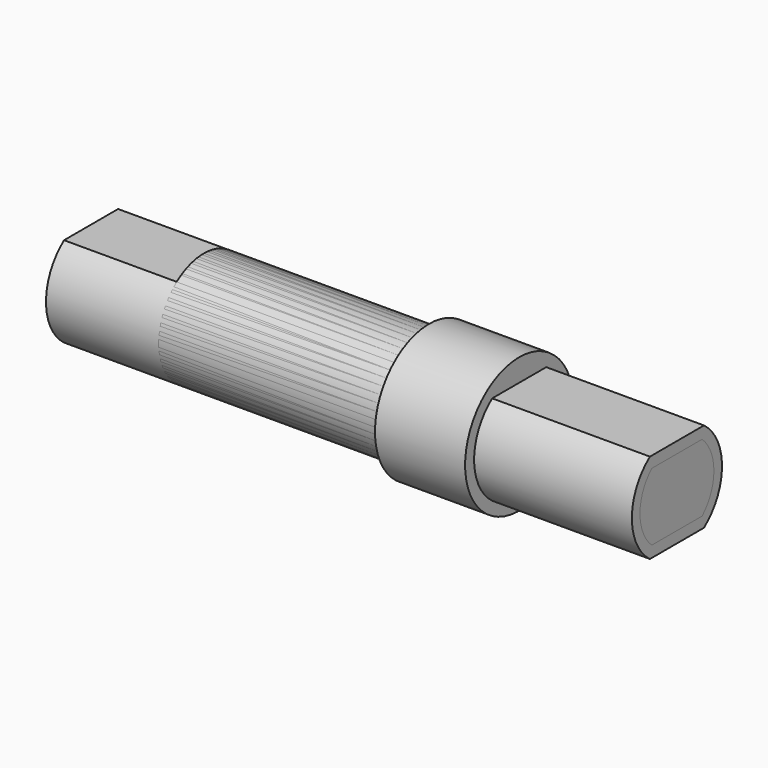
from build123d import *

# Parameters (mm, degrees)
SKETCH001_W     = 10
SKETCH001_H     = 5
POCKET_DEPTH    = 5
SKETCH002_W     = 10
SKETCH002_H     = 5
POCKET001_DEPTH = 7
SKETCH004_W     = 10
SKETCH004_H     = 5
POCKET002_DEPTH = 5
SKETCH005_W     = 10
SKETCH005_H     = 5
POCKET003_DEPTH = 7
CHAMFER_SIZE    = 0.4
SKETCH006_R     = 3
SKETCH006_R_2   = 2.45
POCKET004_DEPTH = 5.001


with BuildPart() as shaft1_skel:
    # Sketch → Revolution (revolve)
    with BuildSketch(Plane.XY):
        Polygon((7, 0), (7, 2.5), (0, 2.5), (0, 3), (-4, 3), (-4, 2.5), (-19, 2.5), (-19, 0), align=None)
    revolve(axis=Axis((0, 0, 0), (1, 0, 0)))

    # Sketch001 (on Face7 of Revolution) → Pocket (cut)
    with BuildSketch(Plane(origin=(-19, 0, 0), x_dir=(0, -1, 0), z_dir=(-1, 0, 0))):
        with Locations((0, 4.5)):
            Rectangle(SKETCH001_W, SKETCH001_H)
        with Locations((0, -4.5)):
            Rectangle(SKETCH001_W, SKETCH001_H)
    extrude(amount=-POCKET_DEPTH, mode=Mode.SUBTRACT)

    # Sketch002 (on Face1 of Pocket) → Pocket001 (cut)
    with BuildSketch(Plane.YZ.offset(7)):
        with Locations((0, 4.5)):
            Rectangle(SKETCH002_W, SKETCH002_H)
        with Locations((0, -4.5)):
            Rectangle(SKETCH002_W, SKETCH002_H)
    extrude(amount=-POCKET001_DEPTH, mode=Mode.SUBTRACT)


with BuildPart() as shaft1s:
    # Sketch003 → Revolution001 (revolve)
    with BuildSketch(Plane.XY):
        Polygon((7, 0), (7, 2.45), (0, 2.45), (0, 3), (-4, 3), (-4, 2.5), (-19, 2.5), (-19, 0), align=None)
    revolve(axis=Axis((0, 0, 0), (1, 0, 0)))

    # Sketch004 (on Face7 of Revolution001) → Pocket002 (cut)
    with BuildSketch(Plane(origin=(-19, 0, 0), x_dir=(0, -1, 0), z_dir=(-1, 0, 0))):
        with Locations((0, 4.4)):
            Rectangle(SKETCH004_W, SKETCH004_H)
        with Locations((0, -4.4)):
            Rectangle(SKETCH004_W, SKETCH004_H)
    extrude(amount=-POCKET002_DEPTH, mode=Mode.SUBTRACT)

    # Sketch005 (on Face1 of Pocket002) → Pocket003 (cut)
    with BuildSketch(Plane.YZ.offset(7)):
        with Locations((0, 4.4)):
            Rectangle(SKETCH005_W, SKETCH005_H)
        with Locations((0, -4.4)):
            Rectangle(SKETCH005_W, SKETCH005_H)
    extrude(amount=-POCKET003_DEPTH, mode=Mode.SUBTRACT)

    # Chamfer
    chamfer_edges = [shaft1s.edges().sort_by_distance(p)[0] for p in [
        (7, -2.45, 0),
        (7, 2.212701, 1.051882),
        (7, 2.212701, -1.051882),
        (7, 0, 1.9),
        (7, 0, -1.9),
        (-19, 0, -1.9),
        (-19, 2.270685, -1.04594),
        (-19, 2.270685, 1.04594),
        (-19, -2.5, 0),
        (-19, 0, 1.9),
    ]]
    chamfer(chamfer_edges, length=CHAMFER_SIZE)

    # Sketch006 (on DatumPlane) → Pocket004 (cut, through all)
    with BuildSketch(Plane(origin=(-14, 0, 0), x_dir=(0, -1, 0), z_dir=(-1, 0, 0))):
        Circle(SKETCH006_R)
        Circle(SKETCH006_R_2, mode=Mode.SUBTRACT)
    extrude(amount=POCKET004_DEPTH, mode=Mode.SUBTRACT)


solid = Compound([shaft1_skel.part, shaft1s.part])
